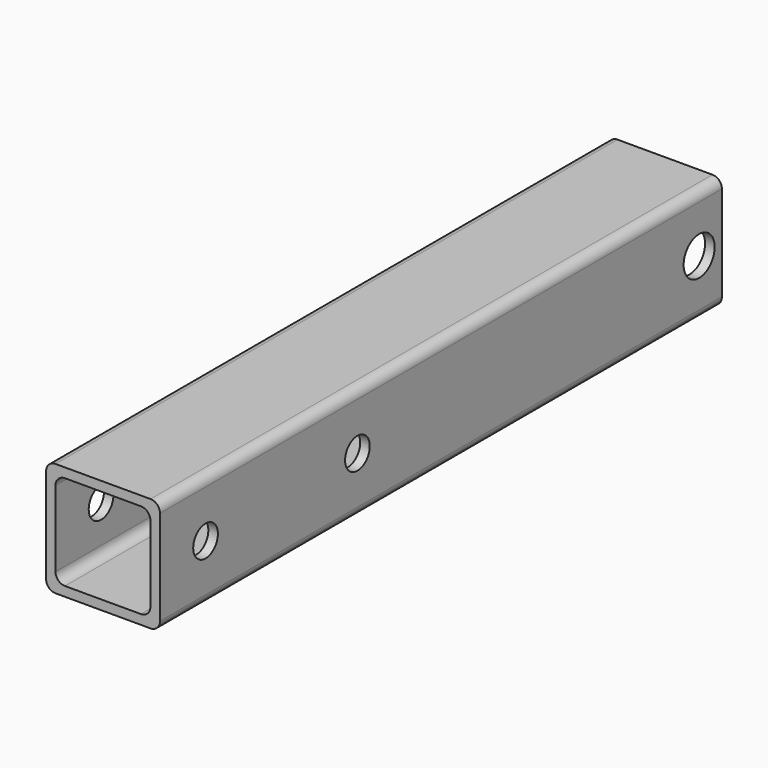
from build123d import *

# Parameters (mm, degrees)
F0_W     = 19.05
F0_H     = 19.05
F0_W_2   = 15.875
F0_H_2   = 15.875
F1_DEPTH = 107.95
F2_R     = 1.5875
F3_R     = 1.5875
F4_R     = 3.2385
F4_R_2   = 2.5796875
F5_DEPTH = 19.05
F6_DEPTH = 98.425


with BuildPart() as f1:
    # F0 (on Front) → F1 (new body, symmetric)
    with BuildSketch(Plane.XZ):
        Rectangle(F0_W, F0_H)
        with Locations((-0.0127, 0)):
            Rectangle(F0_W_2, F0_H_2, mode=Mode.SUBTRACT)
    extrude(amount=F1_DEPTH, both=True)

    # F2
    f2_edges = [f1.edges().sort_by_distance(p)[0] for p in [
        (-9.525, 0, 9.525),
        (-9.525, 0, -9.525),
        (9.525, 0, -9.525),
        (9.525, 0, 9.525),
    ]]
    fillet(f2_edges, radius=F2_R)

    # F3
    f3_edges = [f1.edges().sort_by_distance(p)[0] for p in [
        (-7.9502, 0, 7.9375),
        (-7.9502, 0, -7.9375),
        (7.9248, 0, 7.9375),
        (7.9248, 0, -7.9375),
    ]]
    fillet(f3_edges, radius=F3_R)

    # F4 (on face) → F5 (cut)
    with BuildSketch(Plane(origin=(-9.525, 0, 0), x_dir=(0, -1, 0), z_dir=(-1, 0, 0))):
        with Locations((-103.1875, 0)):
            Circle(F4_R)
        with Locations((-31.75, 0)):
            Circle(F4_R_2)
        Circle(F4_R_2)
    extrude(amount=-F5_DEPTH, mode=Mode.SUBTRACT)

    # F6 (cut): a face of the model
    f6_faces = [f1.faces().sort_by_distance(p)[0] for p in [
        (-8.2196076836, -107.95, 0),
    ]]
    extrude(f6_faces, amount=-F6_DEPTH, mode=Mode.SUBTRACT)


solid = f1.part
